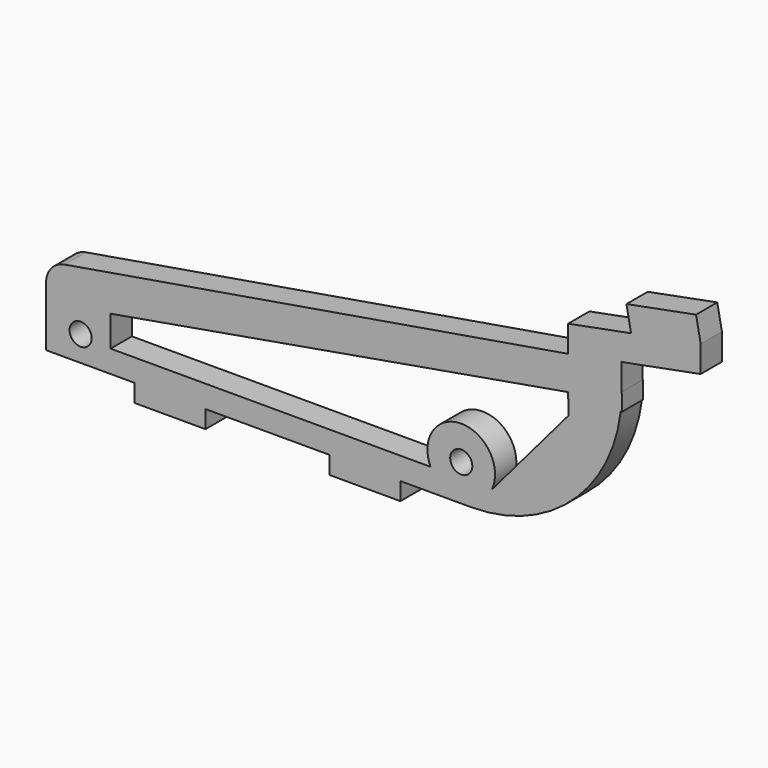
from build123d import *

# Parameters (mm, degrees)
F0_R     = 3.175
F1_DEPTH = 3.81


with BuildPart() as f1:
    # F0 (on Front) → F1 (new body, symmetric)
    with BuildSketch(Plane.XZ):
        with BuildLine():
            Line((-59.890088, -21.828954), (-59.890088, -16.748955))
            Line((-59.890088, -16.748955), (-24.330088, -16.748955))
            Line((-24.330088, -16.748955), (-24.330088, -21.828954))
            Line((-24.330088, -21.828954), (-4.010088, -21.828954))
            Line((-4.010088, -21.828954), (-4.010088, -16.748955))
            Line((-4.010088, -16.748955), (16.322047, -16.748955))
            ThreePointArc((16.322047, -16.748955), (44.998655, -5.847431), (59.191398, 21.351045))
            ThreePointArc((59.191398, 21.351045), (59.276078, 22.127556), (59.346694, 22.905473))
            Line((59.346694, 22.905473), (59.346694, 34.051045))
            Line((59.346694, 34.051045), (60.017541, 34.051045))
            Line((60.017541, 34.051045), (82.11488, 38.268742))
            Line((82.11488, 38.268742), (82.11488, 45.888742))
            Line((82.11488, 45.888742), (80.789338, 52.833516))
            Line((80.789338, 52.833516), (60.82966, 49.023833))
            Line((60.82966, 49.023833), (62.155202, 42.079058))
            Line((62.155202, 42.079058), (44.106369, 38.634096))
            Line((44.106369, 38.634096), (44.106369, 31.014096))
            Line((44.106369, 31.014096), (-100.318861, 6.59136))
            ThreePointArc((-100.318861, 6.59136), (-104.110125, 4.428987), (-105.610088, 0.33025))
            Line((-105.610088, 0.33025), (-105.610088, -16.748954))
            Line((-105.610088, -16.748954), (-80.210088, -16.748954))
            Line((-80.210088, -16.748954), (-80.210088, -21.828954))
            Line((-80.210088, -21.828954), (-59.890088, -21.828954))
        make_face()
        with Locations((-95.69665, -9.482743)):
            Circle(F0_R, mode=Mode.SUBTRACT)
        with BuildLine():
            Line((-87.117024, -1.517896), (44.106369, 21.351045))
            Line((44.106369, 21.351045), (44.224798, 15.474893))
            Line((44.224798, 15.474893), (22.260441, -10.339289))
            ThreePointArc((22.260441, -10.339289), (13.454788, 3.430057), (4.649135, -10.339289))
            Line((4.649135, -10.339289), (-87.117024, -10.339289))
            Line((-87.117024, -10.339289), (-87.117024, -1.517896))
        make_face(mode=Mode.SUBTRACT)
        with Locations((13.454788, -6.276863)):
            Circle(F0_R, mode=Mode.SUBTRACT)
        with BuildLine():
            ThreePointArc((59.346694, 22.905473), (59.276078, 22.127556), (59.191398, 21.351045))
            Line((59.191398, 21.351045), (59.346694, 21.351045))
            Line((59.346694, 21.351045), (59.346694, 22.905473))
        make_face()
        with BuildLine():
            ThreePointArc((59.489912, 26.418909), (59.454092, 24.660732), (59.346694, 22.905473))
            Line((59.346694, 22.905473), (59.346694, 21.351045))
            Line((59.346694, 21.351045), (59.489912, 21.351045))
            Line((59.489912, 21.351045), (59.489912, 26.418909))
        make_face()
    extrude(amount=F1_DEPTH, both=True)


solid = f1.part
